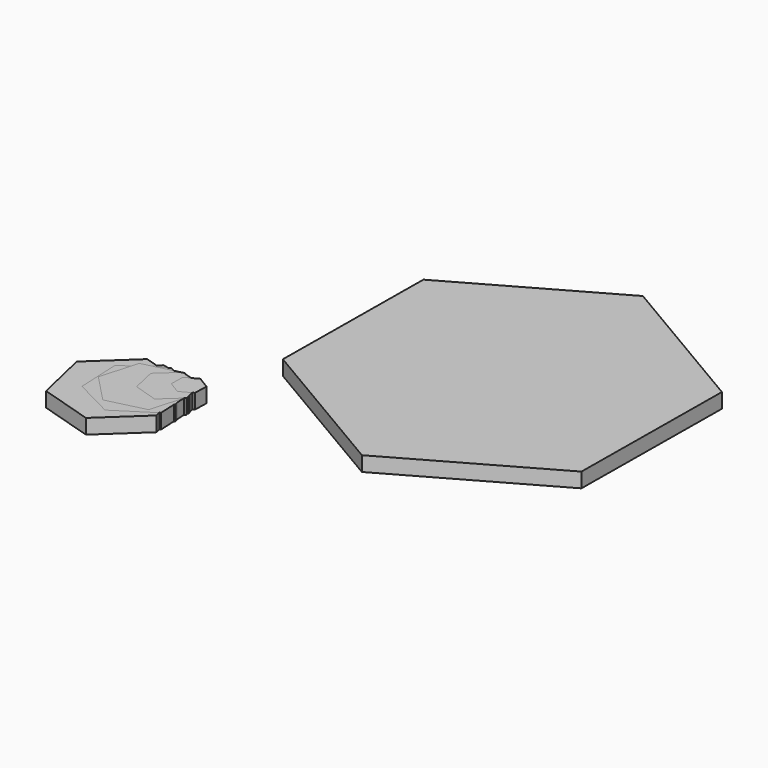
from build123d import *

# Parameters (mm, degrees)
PAD_DEPTH    = 10
PAD001_DEPTH = 10
PAD002_DEPTH = 10
PAD003_DEPTH = 10
PAD004_DEPTH = 10
PAD005_DEPTH = 10
PAD006_DEPTH = 10
PAD007_DEPTH = 10
PAD008_DEPTH = 10
PAD009_DEPTH = 10
PAD010_DEPTH = 10
PAD013_DEPTH = 10


with BuildPart() as body001:
    # Sketch → Pad (new body)
    with BuildSketch(Plane.XY):
        Polygon((0, 0), (35.730759, -10.942726), (63.072817, 14.529657), (54.684116, 50.944764), (18.953357, 61.88749), (-8.388701, 36.415108), align=None)
    extrude(amount=PAD_DEPTH)


with BuildPart() as body001_1:
    # Body001 placement: moved
    add(body001.part.moved(Location((-63.072817, -61.88749, 0))))


with BuildPart() as body:
    # Sketch001 → Pad001 (new body)
    with BuildSketch(Plane.XY):
        Polygon((0, 0), (16.229028, -5.127638), (28.784207, 6.363294), (25.110358, 22.981864), (8.881329, 28.109502), (-3.67385, 16.61857), align=None)
    extrude(amount=PAD001_DEPTH)


with BuildPart() as body_1:
    # Body placement: moved
    add(body.part.moved(Location((-28.784207, -28.109502, 0))))


with BuildPart() as body002:
    # Sketch002 → Pad002 (new body)
    with BuildSketch(Plane.XY):
        Polygon((0, 0), (18.058287, 19.034859), (10.60276, 44.191224), (-14.911055, 50.31273), (-32.969343, 31.277871), (-25.513815, 6.121506), align=None)
    extrude(amount=PAD002_DEPTH)


with BuildPart() as body002_1:
    # Body002 placement: moved
    add(body002.part.moved(Location((-18.058287, -50.31273, 0))))


with BuildPart() as body003:
    # Sketch003 → Pad003 (new body)
    with BuildSketch(Plane.XY):
        Polygon((0, 0), (-8.070428, 4.915804), (-16.362853, 0.38451), (-16.58485, -9.062588), (-8.514422, -13.978392), (-0.221997, -9.447098), align=None)
    extrude(amount=PAD003_DEPTH)


with BuildPart() as body003_1:
    # Body003 placement: moved
    add(body003.part.moved(Location((0, -4.915804, 0))))


with BuildPart() as body004:
    # Sketch004 → Pad004 (new body)
    with BuildSketch(Plane.XY):
        Polygon((0, 0), (1.421615, -29.758589), (27.904117, -43.406729), (52.965004, -27.29628), (51.543389, 2.46231), (25.060887, 16.11045), align=None)
    extrude(amount=PAD004_DEPTH)


with BuildPart() as body004_1:
    # Body004 placement: moved
    add(body004.part.moved(Location((-52.965004, -16.11045, 0))))


with BuildPart() as body005:
    # Sketch005 → Pad005 (new body)
    with BuildSketch(Plane.XY):
        Polygon((0, 0), (-18.448006, 19.18032), (-44.282653, 12.794037), (-51.669294, -12.772565), (-33.221288, -31.952884), (-7.386641, -25.566602), align=None)
    extrude(amount=PAD005_DEPTH)


with BuildPart() as body005_1:
    # Body005 placement: moved
    add(body005.part.moved(Location((0, -19.18032, 0))))


with BuildPart() as body006:
    # Sketch006 → Pad006 (new body)
    with BuildSketch(Plane.XY):
        Polygon((0, 0), (16.229028, -5.127638), (28.784207, 6.363294), (25.110358, 22.981864), (8.881329, 28.109502), (-3.67385, 16.61857), align=None)
    extrude(amount=PAD006_DEPTH)


with BuildPart() as body006_1:
    # Body006 placement: moved
    add(body006.part.moved(Location((-28.784207, -28.109502, 0))))


with BuildPart() as body007:
    # Sketch007 → Pad007 (new body)
    with BuildSketch(Plane.XY):
        Polygon((0, 0), (16.229028, -5.127638), (28.784207, 6.363294), (25.110358, 22.981864), (8.881329, 28.109502), (-3.67385, 16.61857), align=None)
    extrude(amount=PAD007_DEPTH)


with BuildPart() as body007_1:
    # Body007 placement: moved
    add(body007.part.moved(Location((-28.784207, -28.109502, 0))))


with BuildPart() as body008:
    # Sketch008 → Pad008 (new body)
    with BuildSketch(Plane.XY):
        Polygon((0, 0), (-8.070428, 4.915804), (-16.362853, 0.38451), (-16.58485, -9.062588), (-8.514422, -13.978392), (-0.221997, -9.447098), align=None)
    extrude(amount=PAD008_DEPTH)


with BuildPart() as body008_1:
    # Body008 placement: moved
    add(body008.part.moved(Location((0, -4.915804, 0))))


with BuildPart() as body009:
    # Sketch009 → Pad009 (new body)
    with BuildSketch(Plane.XY):
        Polygon((0, 0), (-8.070428, 4.915804), (-16.362853, 0.38451), (-16.58485, -9.062588), (-8.514422, -13.978392), (-0.221997, -9.447098), align=None)
    extrude(amount=PAD009_DEPTH)


with BuildPart() as body009_1:
    # Body009 placement: moved
    add(body009.part.moved(Location((0, -4.915804, 0))))


with BuildPart() as body010:
    # Sketch010 → Pad010 (new body)
    with BuildSketch(Plane.XY):
        Polygon((0, 0), (-8.070428, 4.915804), (-16.362853, 0.38451), (-16.58485, -9.062588), (-8.514422, -13.978392), (-0.221997, -9.447098), align=None)
    extrude(amount=PAD010_DEPTH)


with BuildPart() as body010_1:
    # Body010 placement: moved
    add(body010.part.moved(Location((0, -4.915804, 0))))


with BuildPart() as board_body:
    # Sketch013 → Pad013 (new body)
    with BuildSketch(Plane.XY):
        Polygon((40.648041, 7.960721), (-60.654729, 67.690055), (-163.033235, 9.82395), (-164.108971, -107.771489), (-62.806201, -167.500823), (39.572305, -109.634718), align=None)
    extrude(amount=-PAD013_DEPTH)


with BuildPart() as board_body_1:
    # Body013 placement: moved
    add(board_body.part.moved(Location((164.108971, 167.500823, 0))))


solid = Compound([body001_1.part, body_1.part, body002_1.part, body003_1.part, body004_1.part, body005_1.part, body006_1.part, body007_1.part, body008_1.part, body009_1.part, body010_1.part, board_body_1.part])
